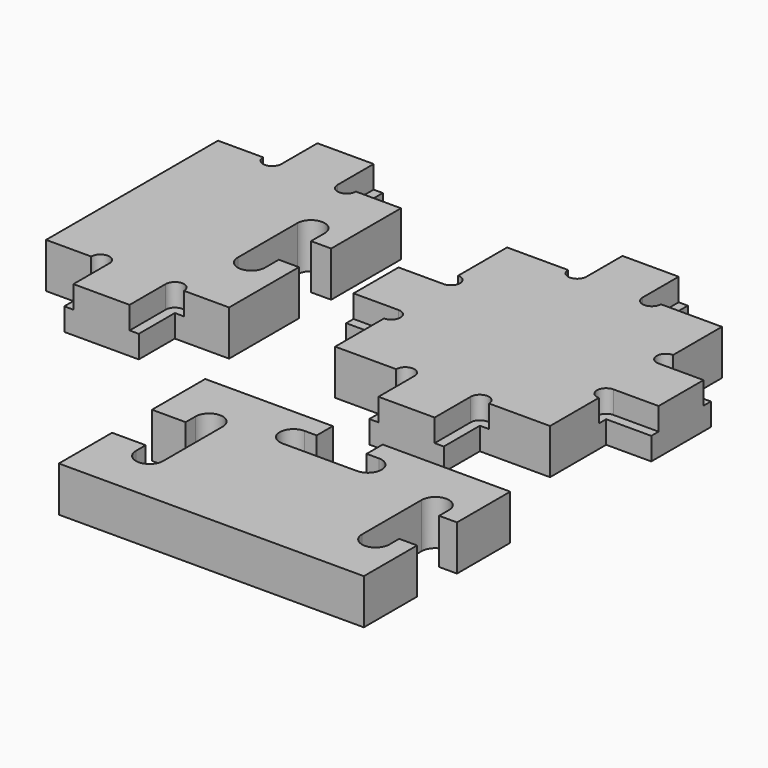
from build123d import *

# Parameters (mm, degrees)
F2_DEPTH = 18.7706
F3_DEPTH = 9.3853
F4_DEPTH = 18.7706
F5_DEPTH = 18.7706
F6_DEPTH = 9.3853


with BuildPart() as f2:
    # F1 (on Top) → F2 (new body)
    with BuildSketch(Plane.XY):
        with BuildLine():
            Line((19.32, -44.7294), (44.7294, -44.7294))
            Line((44.7294, -44.7294), (44.7294, -19.32))
            ThreePointArc((44.7294, -19.32), (40.9194, -15.51), (44.7294, -11.7))
            Line((44.7294, -11.7), (63.5, -11.7))
            Line((63.5, -11.7), (63.5, 11.7))
            Line((63.5, 11.7), (44.7294, 11.7))
            ThreePointArc((44.7294, 11.7), (40.9194, 15.51), (44.7294, 19.32))
            Line((44.7294, 19.32), (44.7294, 44.7294))
            Line((44.7294, 44.7294), (19.32, 44.7294))
            ThreePointArc((19.32, 44.7294), (15.51, 40.9194), (11.7, 44.7294))
            Line((11.7, 44.7294), (11.7, 63.5))
            Line((11.7, 63.5), (-11.7, 63.5))
            Line((-11.7, 63.5), (-11.7, 44.7294))
            ThreePointArc((-11.7, 44.7294), (-15.51, 40.9194), (-19.32, 44.7294))
            Line((-19.32, 44.7294), (-44.7294, 44.7294))
            Line((-44.7294, 44.7294), (-44.7294, 19.32))
            ThreePointArc((-44.7294, 19.32), (-40.9194, 15.51), (-44.7294, 11.7))
            Line((-44.7294, 11.7), (-63.5, 11.7))
            Line((-63.5, 11.7), (-63.5, -11.7))
            Line((-63.5, -11.7), (-44.7294, -11.7))
            ThreePointArc((-44.7294, -11.7), (-40.9194, -15.51), (-44.7294, -19.32))
            Line((-44.7294, -19.32), (-44.7294, -44.7294))
            Line((-44.7294, -44.7294), (-19.32, -44.7294))
            ThreePointArc((-19.32, -44.7294), (-15.51, -40.9194), (-11.7, -44.7294))
            Line((-11.7, -44.7294), (-11.7, -63.5))
            Line((-11.7, -63.5), (11.7, -63.5))
            Line((11.7, -63.5), (11.7, -44.7294))
            ThreePointArc((11.7, -44.7294), (15.51, -40.9194), (19.32, -44.7294))
        make_face()
    extrude(amount=F2_DEPTH)

    # F1 (on Top) → F3 (join)
    with BuildSketch(Plane.XY):
        with BuildLine():
            Line((-11.7, 44.7294), (-11.7, 63.5))
            Line((-11.7, 63.5), (-15.51, 63.5))
            Line((-15.51, 63.5), (-15.51, 44.7294))
            Line((-15.51, 44.7294), (-19.32, 44.7294))
            ThreePointArc((-19.32, 44.7294), (-15.51, 40.9194), (-11.7, 44.7294))
        make_face()
        with BuildLine():
            Line((-63.5, 15.51), (-63.5, 11.7))
            Line((-63.5, 11.7), (-44.7294, 11.7))
            ThreePointArc((-44.7294, 11.7), (-40.9194, 15.51), (-44.7294, 19.32))
            Line((-44.7294, 19.32), (-44.7294, 15.51))
            Line((-44.7294, 15.51), (-63.5, 15.51))
        make_face()
        with BuildLine():
            Line((-44.7294, -15.51), (-44.7294, -19.32))
            ThreePointArc((-44.7294, -19.32), (-40.9194, -15.51), (-44.7294, -11.7))
            Line((-44.7294, -11.7), (-63.5, -11.7))
            Line((-63.5, -11.7), (-63.5, -15.51))
            Line((-63.5, -15.51), (-44.7294, -15.51))
        make_face()
        with BuildLine():
            Line((-15.51, -63.5), (-11.7, -63.5))
            Line((-11.7, -63.5), (-11.7, -44.7294))
            ThreePointArc((-11.7, -44.7294), (-15.51, -40.9194), (-19.32, -44.7294))
            Line((-19.32, -44.7294), (-15.51, -44.7294))
            Line((-15.51, -44.7294), (-15.51, -63.5))
        make_face()
        with BuildLine():
            Line((15.51, -44.7294), (19.32, -44.7294))
            ThreePointArc((19.32, -44.7294), (15.51, -40.9194), (11.7, -44.7294))
            Line((11.7, -44.7294), (11.7, -63.5))
            Line((11.7, -63.5), (15.51, -63.5))
            Line((15.51, -63.5), (15.51, -44.7294))
        make_face()
        with BuildLine():
            ThreePointArc((44.7294, -11.7), (40.9194, -15.51), (44.7294, -19.32))
            Line((44.7294, -19.32), (44.7294, -15.51))
            Line((44.7294, -15.51), (63.5, -15.51))
            Line((63.5, -15.51), (63.5, -11.7))
            Line((63.5, -11.7), (44.7294, -11.7))
        make_face()
        with BuildLine():
            Line((44.7294, 11.7), (63.5, 11.7))
            Line((63.5, 11.7), (63.5, 15.51))
            Line((63.5, 15.51), (44.7294, 15.51))
            Line((44.7294, 15.51), (44.7294, 19.32))
            ThreePointArc((44.7294, 19.32), (40.9194, 15.51), (44.7294, 11.7))
        make_face()
        with BuildLine():
            ThreePointArc((11.7, 44.7294), (15.51, 40.9194), (19.32, 44.7294))
            Line((19.32, 44.7294), (15.51, 44.7294))
            Line((15.51, 44.7294), (15.51, 63.5))
            Line((15.51, 63.5), (11.7, 63.5))
            Line((11.7, 63.5), (11.7, 44.7294))
        make_face()
    extrude(amount=F3_DEPTH)


with BuildPart() as f4:
    # F1 (on Top) → F4 (new body)
    with BuildSketch(Plane.XY):
        with BuildLine():
            Line((-63.5, -137.3853), (-63.5, -165.1))
            Line((-63.5, -165.1), (63.5, -165.1))
            Line((63.5, -165.1), (63.5, -137.3853))
            Line((63.5, -137.3853), (56.0508503042, -137.3853))
            Line((56.0508503042, -137.3853), (56.0508503042, -142.51))
            ThreePointArc((56.0508503042, -142.51), (50.3582003042, -148.20265), (44.6655503042, -142.51))
            Line((44.6655503042, -142.51), (44.6655503042, -111.49))
            ThreePointArc((44.6655503042, -111.49), (50.3582003042, -105.79735), (56.0508503042, -111.49))
            Line((56.0508503042, -111.49), (56.0508503042, -116.6147))
            Line((56.0508503042, -116.6147), (63.5, -116.6147))
            Line((63.5, -116.6147), (63.5, -88.9))
            Line((63.5, -88.9), (10.3853, -88.9))
            Line((10.3853, -88.9), (10.3853, -97.2853))
            Line((10.3853, -97.2853), (15.51, -97.2853))
            ThreePointArc((15.51, -97.2853), (21.20265, -102.97795), (15.51, -108.6706))
            Line((15.51, -108.6706), (-15.51, -108.6706))
            ThreePointArc((-15.51, -108.6706), (-21.20265, -102.97795), (-15.51, -97.2853))
            Line((-15.51, -97.2853), (-10.3853, -97.2853))
            Line((-10.3853, -97.2853), (-10.3853, -88.9))
            Line((-10.3853, -88.9), (-63.5, -88.9))
            Line((-63.5, -88.9), (-63.5, -116.6147))
            Line((-63.5, -116.6147), (-49.4821332395, -116.6147))
            Line((-49.4821332395, -116.6147), (-49.4821332395, -111.49))
            ThreePointArc((-49.4821332395, -111.49), (-43.7894832395, -105.79735), (-38.0968332395, -111.49))
            Line((-38.0968332395, -111.49), (-38.0968332395, -142.51))
            ThreePointArc((-38.0968332395, -142.51), (-43.7894832395, -148.20265), (-49.4821332395, -142.51))
            Line((-49.4821332395, -142.51), (-49.4821332395, -137.3853))
            Line((-49.4821332395, -137.3853), (-63.5, -137.3853))
        make_face()
    extrude(amount=F4_DEPTH)


with BuildPart() as f5:
    # F1 (on Top) → F5 (new body)
    with BuildSketch(Plane.XY):
        with BuildLine():
            Line((-107.68, -44.7294), (-88.9, -44.7294))
            Line((-88.9, -44.7294), (-88.9, -8.3853))
            Line((-88.9, -8.3853), (-97.2853, -8.3853))
            Line((-97.2853, -8.3853), (-97.2853, -15.51))
            ThreePointArc((-97.2853, -15.51), (-102.97795, -21.20265), (-108.6706, -15.51))
            Line((-108.6706, -15.51), (-108.6706, 15.51))
            ThreePointArc((-108.6706, 15.51), (-102.97795, 21.20265), (-97.2853, 15.51))
            Line((-97.2853, 15.51), (-97.2853, 8.3853))
            Line((-97.2853, 8.3853), (-88.9, 8.3853))
            Line((-88.9, 8.3853), (-88.9, 44.7294))
            Line((-88.9, 44.7294), (-107.68, 44.7294))
            ThreePointArc((-107.68, 44.7294), (-111.49, 40.9194), (-115.3, 44.7294))
            Line((-115.3, 44.7294), (-115.3, 63.5))
            Line((-115.3, 63.5), (-138.7, 63.5))
            Line((-138.7, 63.5), (-138.7, 44.7294))
            ThreePointArc((-138.7, 44.7294), (-142.51, 40.9194), (-146.32, 44.7294))
            Line((-146.32, 44.7294), (-165.1, 44.7294))
            Line((-165.1, 44.7294), (-165.1, -44.7294))
            Line((-165.1, -44.7294), (-146.32, -44.7294))
            ThreePointArc((-146.32, -44.7294), (-142.51, -40.9194), (-138.7, -44.7294))
            Line((-138.7, -44.7294), (-138.7, -63.5))
            Line((-138.7, -63.5), (-115.3, -63.5))
            Line((-115.3, -63.5), (-115.3, -44.7294))
            ThreePointArc((-115.3, -44.7294), (-111.49, -40.9194), (-107.68, -44.7294))
        make_face()
    extrude(amount=F5_DEPTH)

    # F1 (on Top) → F6 (join)
    with BuildSketch(Plane.XY):
        with BuildLine():
            Line((-142.51, 44.7294), (-146.32, 44.7294))
            ThreePointArc((-146.32, 44.7294), (-142.51, 40.9194), (-138.7, 44.7294))
            Line((-138.7, 44.7294), (-138.7, 63.5))
            Line((-138.7, 63.5), (-142.51, 63.5))
            Line((-142.51, 63.5), (-142.51, 44.7294))
        make_face()
        with BuildLine():
            ThreePointArc((-115.3, 44.7294), (-111.49, 40.9194), (-107.68, 44.7294))
            Line((-107.68, 44.7294), (-111.49, 44.7294))
            Line((-111.49, 44.7294), (-111.49, 63.5))
            Line((-111.49, 63.5), (-115.3, 63.5))
            Line((-115.3, 63.5), (-115.3, 44.7294))
        make_face()
        with BuildLine():
            Line((-111.49, -44.7294), (-107.68, -44.7294))
            ThreePointArc((-107.68, -44.7294), (-111.49, -40.9194), (-115.3, -44.7294))
            Line((-115.3, -44.7294), (-115.3, -63.5))
            Line((-115.3, -63.5), (-111.49, -63.5))
            Line((-111.49, -63.5), (-111.49, -44.7294))
        make_face()
        with BuildLine():
            Line((-142.51, -63.5), (-138.7, -63.5))
            Line((-138.7, -63.5), (-138.7, -44.7294))
            ThreePointArc((-138.7, -44.7294), (-142.51, -40.9194), (-146.32, -44.7294))
            Line((-146.32, -44.7294), (-142.51, -44.7294))
            Line((-142.51, -44.7294), (-142.51, -63.5))
        make_face()
    extrude(amount=F6_DEPTH)


solid = Compound([f2.part, f4.part, f5.part])
